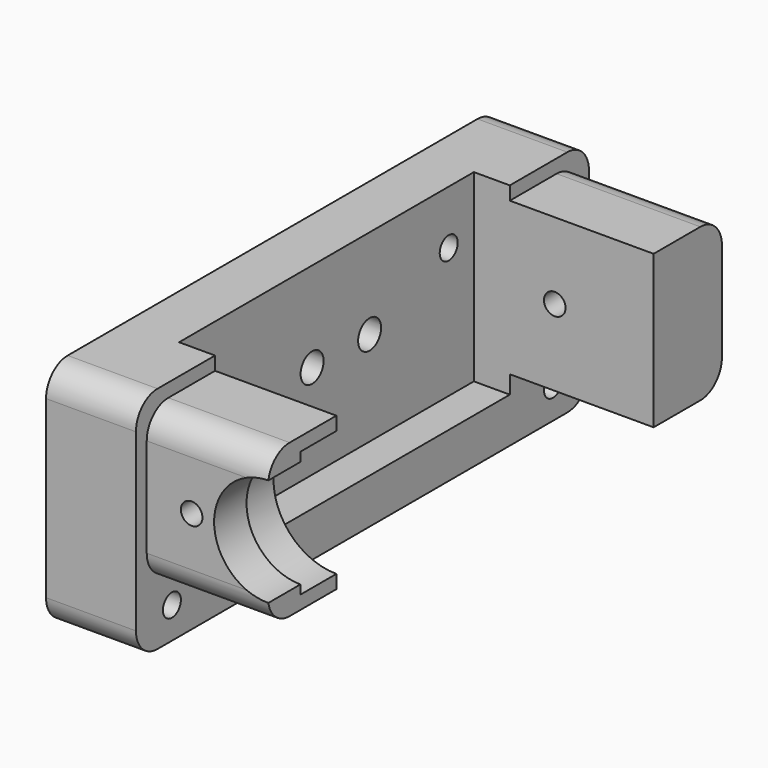
from build123d import *

# Parameters (mm, degrees)
CYLINDER893_R           = 1.6
CYLINDER893_DEPTH       = 10
CYLINDER893_PITCH_ANGLE = 90
CYLINDER894_R           = 1.6
CYLINDER894_DEPTH       = 10
CYLINDER894_PITCH_ANGLE = 90
CYLINDER896_R           = 3.1
CYLINDER896_DEPTH       = 2.5
CYLINDER896_PITCH_ANGLE = 90
CYLINDER895_R           = 3.1
CYLINDER895_DEPTH       = 2.5
CYLINDER895_PITCH_ANGLE = 90
BOX550_W                = 41
BOX550_H                = 41
BOX550_DEPTH            = 21
CYLINDER891_R           = 6
CYLINDER891_DEPTH       = 11
CYLINDER891_ROLL_ANGLE  = 90
CYLINDER945_R           = 7
CYLINDER945_DEPTH       = 5
CYLINDER945_ROLL_ANGLE  = 90
BOX559_W                = 10
BOX559_H                = 10
BOX559_DEPTH            = 17
CYLINDER693_R           = 1.2
CYLINDER693_DEPTH       = 10
CYLINDER693_ROLL_ANGLE  = 90
CYLINDER692_R           = 1.2
CYLINDER692_DEPTH       = 10
CYLINDER692_ROLL_ANGLE  = 90
CYLINDER697_R           = 1.25
CYLINDER697_DEPTH       = 15
CYLINDER697_PITCH_ANGLE = 90
CYLINDER695_R           = 1.25
CYLINDER695_DEPTH       = 11
CYLINDER695_PITCH_ANGLE = 90
CYLINDER696_R           = 1.25
CYLINDER696_DEPTH       = 15
CYLINDER696_PITCH_ANGLE = 90
CYLINDER694_R           = 1.25
CYLINDER694_DEPTH       = 11
CYLINDER694_PITCH_ANGLE = 90
BOX472_W                = 16
BOX472_H                = 60
BOX472_DEPTH            = 17
FILLET333_R             = 3
BOX473_W                = 10
BOX473_H                = 63
BOX473_DEPTH            = 25.5
FILLET332_R             = 3


with BuildPart() as cylinder1049:
    # Cylinder893 → Cylinder893 (new body)
    with BuildSketch(Plane.XY):
        Circle(CYLINDER893_R)
    extrude(amount=CYLINDER893_DEPTH)


with BuildPart() as cylinder1049_1:
    # Cylinder893 pitch: moved
    add(cylinder1049.part.rotate(Axis((0, 0, 0), (0, 1, 0)), CYLINDER893_PITCH_ANGLE))


with BuildPart() as cylinder1049_2:
    # Cylinder893 placement: moved
    add(cylinder1049_1.part.moved(Location((13.5, 83, -11))))


with BuildPart() as cylinder1050:
    # Cylinder894 → Cylinder894 (new body)
    with BuildSketch(Plane.XY):
        Circle(CYLINDER894_R)
    extrude(amount=CYLINDER894_DEPTH)


with BuildPart() as cylinder1050_1:
    # Cylinder894 pitch: moved
    add(cylinder1050.part.rotate(Axis((0, 0, 0), (0, 1, 0)), CYLINDER894_PITCH_ANGLE))


with BuildPart() as cylinder1050_2:
    # Cylinder894 placement: moved
    add(cylinder1050_1.part.moved(Location((13.5, 91, -11))))


with BuildPart() as cylinder1052:
    # Cylinder896 → Cylinder896 (new body)
    with BuildSketch(Plane.XY):
        Circle(CYLINDER896_R)
    extrude(amount=CYLINDER896_DEPTH)


with BuildPart() as cylinder1052_1:
    # Cylinder896 pitch: moved
    add(cylinder1052.part.rotate(Axis((0, 0, 0), (0, 1, 0)), CYLINDER896_PITCH_ANGLE))


with BuildPart() as cylinder1052_2:
    # Cylinder896 placement: moved
    add(cylinder1052_1.part.moved(Location((13.5, 83, -11))))


with BuildPart() as fusion593:
    # Cylinder895 → Cylinder895 (new body)
    with BuildSketch(Plane.XY):
        Circle(CYLINDER895_R)
    extrude(amount=CYLINDER895_DEPTH)


with BuildPart() as fusion593_1:
    # Cylinder895 pitch: moved
    add(fusion593.part.rotate(Axis((0, 0, 0), (0, 1, 0)), CYLINDER895_PITCH_ANGLE))


with BuildPart() as fusion593_2:
    # Cylinder895 placement: moved
    add(fusion593_1.part.moved(Location((13.5, 91, -11))))

    # Fusion593: union Cylinder1049, Cylinder1050, Cylinder1052
    add(cylinder1049_2.part)
    add(cylinder1050_2.part)
    add(cylinder1052_2.part)


with BuildPart() as cube741:
    # Box550 → Box550 (new body)
    with BuildSketch(Plane(origin=(19.5, 64.5, -21.5), x_dir=(1, 0, 0), z_dir=(0, 0, 1))):
        with Locations((20.5, 20.5)):
            Rectangle(BOX550_W, BOX550_H)
    extrude(amount=BOX550_DEPTH)


with BuildPart() as cylinder1048:
    # Cylinder891 → Cylinder891 (new body)
    with BuildSketch(Plane.XY):
        Circle(CYLINDER891_R)
    extrude(amount=CYLINDER891_DEPTH)


with BuildPart() as cylinder1048_1:
    # Cylinder891 roll: moved
    add(cylinder1048.part.rotate(Axis((0, 0, 0), (1, 0, 0)), CYLINDER891_ROLL_ANGLE))


with BuildPart() as cylinder1048_2:
    # Cylinder891 placement: moved
    add(cylinder1048_1.part.moved(Location((37, 64.5, -11))))


with BuildPart() as cylinder1090:
    # Cylinder945 → Cylinder945 (new body)
    with BuildSketch(Plane.XY):
        Circle(CYLINDER945_R)
    extrude(amount=CYLINDER945_DEPTH)


with BuildPart() as cylinder1090_1:
    # Cylinder945 roll: moved
    add(cylinder1090.part.rotate(Axis((0, 0, 0), (1, 0, 0)), CYLINDER945_ROLL_ANGLE))


with BuildPart() as cylinder1090_2:
    # Cylinder945 placement: moved
    add(cylinder1090_1.part.moved(Location((37, 64.5, -11))))


with BuildPart() as fusion598:
    # Box559 → Box559 (new body)
    with BuildSketch(Plane(origin=(37, 55, -19.5), x_dir=(1, 0, 0), z_dir=(0, 0, 1))):
        with Locations((5, 5)):
            Rectangle(BOX559_W, BOX559_H)
    extrude(amount=BOX559_DEPTH)

    # Fusion598: union Cube741, Cylinder1048, Cylinder1090
    add(cube741.part)
    add(cylinder1048_2.part)
    add(cylinder1090_2.part)


with BuildPart() as cylinder943:
    # Cylinder693 → Cylinder693 (new body)
    with BuildSketch(Plane.XY):
        Circle(CYLINDER693_R)
    extrude(amount=CYLINDER693_DEPTH)


with BuildPart() as cylinder943_1:
    # Cylinder693 roll: moved
    add(cylinder943.part.rotate(Axis((0, 0, 0), (1, 0, 0)), CYLINDER693_ROLL_ANGLE))


with BuildPart() as cylinder943_2:
    # Cylinder693 placement: moved
    add(cylinder943_1.part.moved(Location((3, 10, 10))))


with BuildPart() as fusion462:
    # Cylinder692 → Cylinder692 (new body)
    with BuildSketch(Plane.XY):
        Circle(CYLINDER692_R)
    extrude(amount=CYLINDER692_DEPTH)


with BuildPart() as fusion462_1:
    # Cylinder692 roll: moved
    add(fusion462.part.rotate(Axis((0, 0, 0), (1, 0, 0)), CYLINDER692_ROLL_ANGLE))


with BuildPart() as fusion462_2:
    # Cylinder692 placement: moved
    add(fusion462_1.part.moved(Location((3, 60, 10))))

    # Fusion462: union Cylinder943
    add(cylinder943_2.part)


with BuildPart() as fusion462_3:
    # Fusion462 placement: moved
    add(fusion462_2.part.moved(Location((0, 0, 2))))


with BuildPart() as cylinder976:
    # Cylinder697 → Cylinder697 (new body)
    with BuildSketch(Plane.XY):
        Circle(CYLINDER697_R)
    extrude(amount=CYLINDER697_DEPTH)


with BuildPart() as cylinder976_1:
    # Cylinder697 pitch: moved
    add(cylinder976.part.rotate(Axis((0, 0, 0), (0, 1, 0)), CYLINDER697_PITCH_ANGLE))


with BuildPart() as cylinder976_2:
    # Cylinder697 placement: moved
    add(cylinder976_1.part.moved(Location((-2, 23, 15))))


with BuildPart() as cylinder974:
    # Cylinder695 → Cylinder695 (new body)
    with BuildSketch(Plane.XY):
        Circle(CYLINDER695_R)
    extrude(amount=CYLINDER695_DEPTH)


with BuildPart() as cylinder974_1:
    # Cylinder695 pitch: moved
    add(cylinder974.part.rotate(Axis((0, 0, 0), (0, 1, 0)), CYLINDER695_PITCH_ANGLE))


with BuildPart() as cylinder974_2:
    # Cylinder695 placement: moved
    add(cylinder974_1.part.moved(Location((-2, 13.5, -1))))


with BuildPart() as cylinder975:
    # Cylinder696 → Cylinder696 (new body)
    with BuildSketch(Plane.XY):
        Circle(CYLINDER696_R)
    extrude(amount=CYLINDER696_DEPTH)


with BuildPart() as cylinder975_1:
    # Cylinder696 pitch: moved
    add(cylinder975.part.rotate(Axis((0, 0, 0), (0, 1, 0)), CYLINDER696_PITCH_ANGLE))


with BuildPart() as cylinder975_2:
    # Cylinder696 placement: moved
    add(cylinder975_1.part.moved(Location((-2, 57, 15))))


with BuildPart() as fusion463:
    # Cylinder694 → Cylinder694 (new body)
    with BuildSketch(Plane.XY):
        Circle(CYLINDER694_R)
    extrude(amount=CYLINDER694_DEPTH)


with BuildPart() as fusion463_1:
    # Cylinder694 pitch: moved
    add(fusion463.part.rotate(Axis((0, 0, 0), (0, 1, 0)), CYLINDER694_PITCH_ANGLE))


with BuildPart() as fusion463_2:
    # Cylinder694 placement: moved
    add(fusion463_1.part.moved(Location((-2, 66.5, -1))))

    # Fusion460: union Cylinder976, Cylinder974, Cylinder975
    add(cylinder976_2.part)
    add(cylinder974_2.part)
    add(cylinder975_2.part)


with BuildPart() as fusion463_3:
    # Fusion460 placement: moved
    add(fusion463_2.part.moved(Location((-10, -10, 1))))

    # Fusion463: union Fusion462
    add(fusion462_3.part)


with BuildPart() as fusion463_4:
    # Fusion463 placement: moved
    add(fusion463_3.part.moved(Location((25.5, 55, -23))))


with BuildPart() as fillet333:
    # Box472 → Box472 (new body)
    with BuildSketch(Plane(origin=(-2, 0, 1.5), x_dir=(1, 0, 0), z_dir=(0, 0, 1))):
        with Locations((8, 30)):
            Rectangle(BOX472_W, BOX472_H)
    extrude(amount=BOX472_DEPTH)

    # Fillet333
    fillet333_edges = [fillet333.edges().sort_by_distance(p)[0] for p in [
        (6, 0, 1.5),
        (6, 0, 18.5),
        (6, 60, 1.5),
        (6, 60, 18.5),
    ]]
    fillet(fillet333_edges, radius=FILLET333_R)


with BuildPart() as fillet333_1:
    # Fillet333 placement: moved
    add(fillet333.part.moved(Location((25.5, 55, -21))))


with BuildPart() as cross_member_front:
    # Box473 → Box473 (new body)
    with BuildSketch(Plane(origin=(-12, 0, -5), x_dir=(1, 0, 0), z_dir=(0, 0, 1))):
        with Locations((5, 31.5)):
            Rectangle(BOX473_W, BOX473_H)
    extrude(amount=BOX473_DEPTH)

    # Fillet332
    fillet332_edges = [cross_member_front.edges().sort_by_distance(p)[0] for p in [
        (-7, 0, -5),
        (-7, 0, 20.5),
        (-7, 63, -5),
        (-7, 63, 20.5),
    ]]
    fillet(fillet332_edges, radius=FILLET332_R)


with BuildPart() as cross_member_front_1:
    # Fillet332 placement: moved
    add(cross_member_front.part.moved(Location((25.5, 53.5, -21.5))))

    # Fusion464: union Fillet333
    add(fillet333_1.part)

    # Cut581: cut Fusion463
    add(fusion463_4.part, mode=Mode.SUBTRACT)

    # Cut696: cut Fusion598
    add(fusion598.part, mode=Mode.SUBTRACT)

    # Cut697: cut Fusion593
    add(fusion593_2.part, mode=Mode.SUBTRACT)


solid = cross_member_front_1.part
